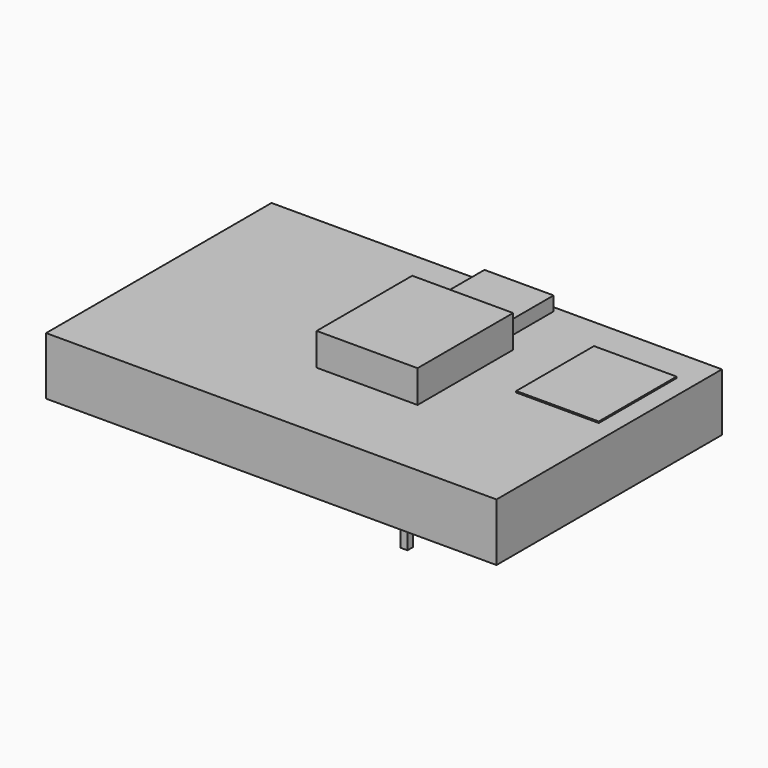
from build123d import *

# Parameters (mm, degrees)
F0_W     = 40.6
F0_H     = 25.4
F0_W_2   = 0.64
F0_H_2   = 0.64
F0_W_3   = 9.0932
F0_H_3   = 10.7696
F0_W_4   = 7.4422
F0_H_4   = 8.763
F0_W_5   = 6.23316
F0_H_5   = 4.699
F1_DEPTH = 2.667
F2_DEPTH = 5.588
F3_DEPTH = 3.937
F4_DEPTH = 2.794
F5_DEPTH = 2.54
F6_DEPTH = 5.461


with BuildPart() as f1:
    # F0 (on Top) → F1 (new body)
    with BuildSketch(Plane.XY):
        Rectangle(F0_W, F0_H)
        with Locations((-10.14, -2.54)):
            Rectangle(F0_W_2, F0_H_2, mode=Mode.SUBTRACT)
        with Locations((10.18, -10.16)):
            Rectangle(F0_W_2, F0_H_2, mode=Mode.SUBTRACT)
        with Locations((-10.14, 2.54)):
            Rectangle(F0_W_2, F0_H_2, mode=Mode.SUBTRACT)
        with Locations((-10.14, 10.16)):
            Rectangle(F0_W_2, F0_H_2, mode=Mode.SUBTRACT)
        with Locations((2.4184, 0.4572)):
            Rectangle(F0_W_3, F0_H_3, mode=Mode.SUBTRACT)
        with Locations((14.9279, 5.2705)):
            Rectangle(F0_W_4, F0_H_4, mode=Mode.SUBTRACT)
        with Locations((2.4184, 9.8425)):
            Rectangle(F0_W_5, F0_H_5, mode=Mode.SUBTRACT)
        with Locations((10.18, 10.16)):
            Rectangle(F0_W_2, F0_H_2, mode=Mode.SUBTRACT)
        with Locations((-10.14, 10.16)):
            Rectangle(F0_W_2, F0_H_2)
        with Locations((-10.14, 2.54)):
            Rectangle(F0_W_2, F0_H_2)
        with Locations((-10.14, -2.54)):
            Rectangle(F0_W_2, F0_H_2)
        with Locations((10.18, 10.16)):
            Rectangle(F0_W_2, F0_H_2)
        with Locations((10.18, -10.16)):
            Rectangle(F0_W_2, F0_H_2)
    extrude(amount=F1_DEPTH)

    # F0 (on Top) → F2 (join)
    with BuildSketch(Plane.XY):
        with Locations((2.4184, 0.4572)):
            Rectangle(F0_W_3, F0_H_3)
    extrude(amount=F2_DEPTH)

    # F0 (on Top) → F3 (join)
    with BuildSketch(Plane.XY):
        with Locations((2.4184, 9.8425)):
            Rectangle(F0_W_5, F0_H_5)
    extrude(amount=F3_DEPTH)

    # F0 (on Top) → F4 (join)
    with BuildSketch(Plane.XY):
        with Locations((14.9279, 5.2705)):
            Rectangle(F0_W_4, F0_H_4)
    extrude(amount=F4_DEPTH)

    # F0 (on Top) → F5 (join)
    with BuildSketch(Plane.XY):
        Rectangle(F0_W, F0_H)
        with Locations((-10.14, -2.54)):
            Rectangle(F0_W_2, F0_H_2, mode=Mode.SUBTRACT)
        with Locations((10.18, -10.16)):
            Rectangle(F0_W_2, F0_H_2, mode=Mode.SUBTRACT)
        with Locations((-10.14, 2.54)):
            Rectangle(F0_W_2, F0_H_2, mode=Mode.SUBTRACT)
        with Locations((-10.14, 10.16)):
            Rectangle(F0_W_2, F0_H_2, mode=Mode.SUBTRACT)
        with Locations((2.4184, 0.4572)):
            Rectangle(F0_W_3, F0_H_3, mode=Mode.SUBTRACT)
        with Locations((14.9279, 5.2705)):
            Rectangle(F0_W_4, F0_H_4, mode=Mode.SUBTRACT)
        with Locations((2.4184, 9.8425)):
            Rectangle(F0_W_5, F0_H_5, mode=Mode.SUBTRACT)
        with Locations((10.18, 10.16)):
            Rectangle(F0_W_2, F0_H_2, mode=Mode.SUBTRACT)
        with Locations((-10.14, -2.54)):
            Rectangle(F0_W_2, F0_H_2)
        with Locations((-10.14, 2.54)):
            Rectangle(F0_W_2, F0_H_2)
        with Locations((-10.14, 10.16)):
            Rectangle(F0_W_2, F0_H_2)
        with Locations((10.18, 10.16)):
            Rectangle(F0_W_2, F0_H_2)
        with Locations((2.4184, 9.8425)):
            Rectangle(F0_W_5, F0_H_5)
        with Locations((2.4184, 0.4572)):
            Rectangle(F0_W_3, F0_H_3)
        with Locations((14.9279, 5.2705)):
            Rectangle(F0_W_4, F0_H_4)
        with Locations((10.18, -10.16)):
            Rectangle(F0_W_2, F0_H_2)
    extrude(amount=-F5_DEPTH)

    # F0 (on Top) → F6 (join)
    with BuildSketch(Plane.XY):
        with Locations((-10.14, -2.54)):
            Rectangle(F0_W_2, F0_H_2)
        with Locations((-10.14, 2.54)):
            Rectangle(F0_W_2, F0_H_2)
        with Locations((-10.14, 10.16)):
            Rectangle(F0_W_2, F0_H_2)
        with Locations((10.18, 10.16)):
            Rectangle(F0_W_2, F0_H_2)
        with Locations((10.18, -10.16)):
            Rectangle(F0_W_2, F0_H_2)
    extrude(amount=-F6_DEPTH)


solid = f1.part
